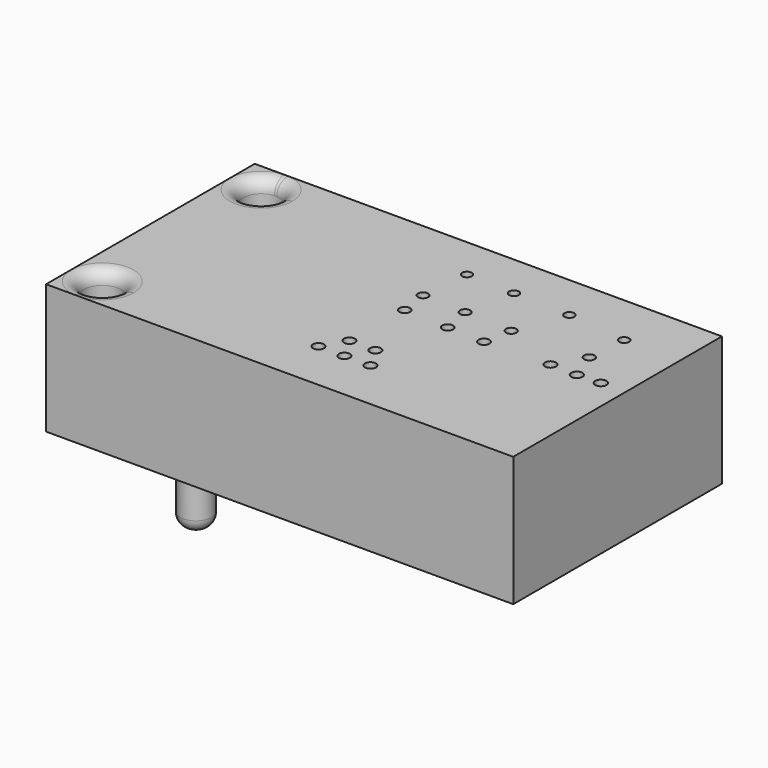
from build123d import *

# Parameters (mm, degrees)
SKETCH002_R      = 1.21
EXTRUDE001_DEPTH = 5
SKETCH_W         = 36
SKETCH_H         = 20.1
SKETCH_R         = 0.425
SKETCH_R_2       = 0.37
SKETCH_R_3       = 0.375
SKETCH_R_4       = 0.38
SKETCH_R_5       = 0.385
SKETCH_R_6       = 0.39
SKETCH_R_7       = 0.395
SKETCH_R_8       = 0.4
SKETCH_R_9       = 0.405
SKETCH_R_10      = 1.407265
SKETCH_R_11      = 0.41
SKETCH_R_12      = 0.415
SKETCH_R_13      = 0.42
SKETCH_R_14      = 0.435
SKETCH_R_15      = 0.43
EXTRUDE_DEPTH    = 10
FILLET_R         = 1


with BuildPart() as extrude001:
    # Sketch002 (on Face26 of Extrude) → Extrude001 (new body)
    with BuildSketch(Plane(origin=(0, 0, 0), x_dir=(1, 0, 0), z_dir=(0, 0, -1))):
        with Locations((-9.25, 6.55)):
            Circle(SKETCH002_R)
        with Locations((-9.25, -6.4)):
            Circle(SKETCH002_R)
    extrude(amount=EXTRUDE001_DEPTH)


with BuildPart() as fillet_body:
    # Sketch → Extrude (new body)
    with BuildSketch(Plane.XY):
        Rectangle(SKETCH_W, SKETCH_H)
        with Locations((-0.15, -6.122051)):
            Circle(SKETCH_R, mode=Mode.SUBTRACT)
        with Locations((0.85, -4.39)):
            Circle(SKETCH_R, mode=Mode.SUBTRACT)
        with Locations((1.85, -6.122051)):
            Circle(SKETCH_R, mode=Mode.SUBTRACT)
        with Locations((2.85, -4.39)):
            Circle(SKETCH_R, mode=Mode.SUBTRACT)
        with Locations((3.85, -6.122051)):
            Circle(SKETCH_R, mode=Mode.SUBTRACT)
        with Locations((0.984052, 6.758854)):
            Circle(SKETCH_R_2, mode=Mode.SUBTRACT)
        with Locations((4.716608, 6.625549)):
            Circle(SKETCH_R_3, mode=Mode.SUBTRACT)
        with Locations((9.093474, 6.492243)):
            Circle(SKETCH_R_4, mode=Mode.SUBTRACT)
        with Locations((13.703352, 6.000288)):
            Circle(SKETCH_R_5, mode=Mode.SUBTRACT)
        with Locations((0.618896, 2.992221)):
            Circle(SKETCH_R_6, mode=Mode.SUBTRACT)
        with Locations((3.966516, 2.859642)):
            Circle(SKETCH_R_7, mode=Mode.SUBTRACT)
        with Locations((7.645586, 2.693918)):
            Circle(SKETCH_R_8, mode=Mode.SUBTRACT)
        with Locations((13.480713, 2.929749)):
            Circle(SKETCH_R_9, mode=Mode.SUBTRACT)
        with Locations((-15.589368, 7.647535)):
            Circle(SKETCH_R_10, mode=Mode.SUBTRACT)
        with Locations((-15.589368, -7.647535)):
            Circle(SKETCH_R_10, mode=Mode.SUBTRACT)
        with Locations((0.947416, 0.812362)):
            Circle(SKETCH_R_11, mode=Mode.SUBTRACT)
        with Locations((4.385513, 0.647773)):
            Circle(SKETCH_R_12, mode=Mode.SUBTRACT)
        with Locations((7.25669, 0.556334)):
            Circle(SKETCH_R_13, mode=Mode.SUBTRACT)
        with Locations((12.230959, 0.739211)):
            Circle(SKETCH_R, mode=Mode.SUBTRACT)
        with Locations((16.107962, 0.757499)):
            Circle(SKETCH_R_14, mode=Mode.SUBTRACT)
        with Locations((14.315762, 0.684348)):
            Circle(SKETCH_R_15, mode=Mode.SUBTRACT)
    extrude(amount=EXTRUDE_DEPTH)

    # Fusion: union Extrude001
    add(extrude001.part)

    # Fillet
    fillet_edges = [fillet_body.edges().sort_by_distance(p)[0] for p in [
        (-16.996633, -7.647535, 0),
        (-16.996633, 7.647535, 0),
        (-16.996633, -7.647535, 10),
        (-16.996633, 7.647535, 10),
        (-10.46, -6.55, -5),
        (-10.46, 6.4, -5),
    ]]
    fillet(fillet_edges, radius=FILLET_R)


solid = fillet_body.part
